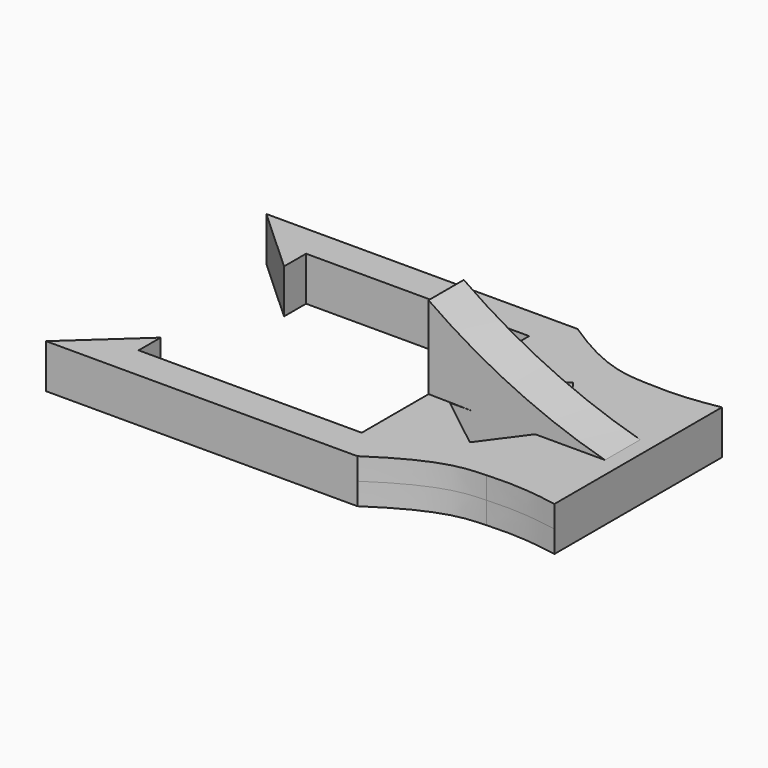
from build123d import *

# Parameters (mm, degrees)
F1_DEPTH = 2
F3_DEPTH = 2


with BuildPart() as f1:
    # F0 (on Top) → F1 (new body, symmetric)
    with BuildSketch(Plane.XY):
        Polygon((10.125, 9.5), (10.125, -9.5), (-10.125, -9.5), (-10.125, -7), (-16.125, -12.5), (-12.125, -12.5), (12.125, -12.5), (12.125, -2), (12.125, 0), (12.125, 2), (12.125, 12.5), (-12.125, 12.5), (-16.125, 12.5), (-10.125, 7), (-10.125, 9.5), align=None)
        with BuildLine():
            Line((17.0268920894, -5.8587268466), (12.125, -12.5))
            add(Edge.make_bspline(
                [(12.125, -12.5), (17.1111167669, -9.1784531251), (19.154572869, -9.144826131), (21.0990195423, -9.0642701834)],
                knots=[0, 0, 0, 0, 0.5479408527, 0.5479408527, 0.5479408527, 0.5479408527], degree=3))
            Line((21.0990195423, -9.0642701834), (17.0268920894, -5.8587268466))
        make_face()
        Polygon((12.125, -2), (12.125, -12.5), (17.0268920894, -5.8587268466), align=None)
        Polygon((12.125, 0), (12.125, -2), (19.875, -2), (27.625, -2), (27.625, 0), align=None)
        with BuildLine():
            Line((23.9668667925, -5.9598710895), (21.0990195423, -9.0642701834))
            add(Edge.make_bspline(
                [(21.0990195423, -9.0642701834), (22.7032162376, -8.9978103588), (24.2400222719, -8.8994083926), (27.625, -9.5)],
                knots=[0.5479408527, 0.5479408527, 0.5479408527, 0.5479408527, 1, 1, 1, 1], degree=3))
            Line((27.625, -9.5), (23.9668667925, -5.9598710895))
        make_face()
        Polygon((17.0268920894, -5.8587268466), (21.0990195423, -9.0642701834), (23.9668667925, -5.9598710895), (19.875, -2), align=None)
        Polygon((17.0268920894, 5.8587268466), (12.125, 12.5), (12.125, 2), align=None)
        with BuildLine():
            add(Edge.make_bspline(
                [(12.125, 12.5), (17.1111167669, 9.1784531251), (19.154572869, 9.144826131), (21.0990195423, 9.0642701834)],
                knots=[0, 0, 0, 0, 0.5479408527, 0.5479408527, 0.5479408527, 0.5479408527], degree=3))
            Line((12.125, 12.5), (17.0268920894, 5.8587268466))
            Line((17.0268920894, 5.8587268466), (21.0990195423, 9.0642701834))
        make_face()
        Polygon((12.125, 2), (12.125, 0), (27.625, 0), (27.625, 2), (19.875, 2), align=None)
        Polygon((27.625, -2), (19.875, -2), (23.9668667925, -5.9598710895), align=None)
        Polygon((23.9668667925, -5.9598710895), (27.625, -9.5), (27.625, -2), align=None)
        Polygon((23.9668667925, 5.9598710895), (21.0990195423, 9.0642701834), (17.0268920894, 5.8587268466), (19.875, 2), align=None)
        with BuildLine():
            add(Edge.make_bspline(
                [(21.0990195423, 9.0642701834), (22.7032162376, 8.9978103588), (24.2400222719, 8.8994083926), (27.625, 9.5)],
                knots=[0.5479408527, 0.5479408527, 0.5479408527, 0.5479408527, 1, 1, 1, 1], degree=3))
            Line((21.0990195423, 9.0642701834), (23.9668667925, 5.9598710895))
            Line((23.9668667925, 5.9598710895), (27.625, 9.5))
        make_face()
        Polygon((23.9668667925, 5.9598710895), (19.875, 2), (27.625, 2), align=None)
        Polygon((27.625, 2), (27.625, 9.5), (23.9668667925, 5.9598710895), align=None)
    extrude(amount=F1_DEPTH, both=True)

    # F2 (on Front) → F3 (join, symmetric)
    with BuildSketch(Plane.XZ):
        with BuildLine():
            Line((10.1918056607, 9.5617884584), (10.1918056607, 2.0617884584))
            Line((10.1918056607, 2.0617884584), (26.9152931869, 1.8099824665))
            ThreePointArc((26.9152931869, 1.8099824665), (18.2067231126, 4.9376539541), (10.1918056607, 9.5617884584))
        make_face()
    extrude(amount=F3_DEPTH, both=True)


solid = f1.part
